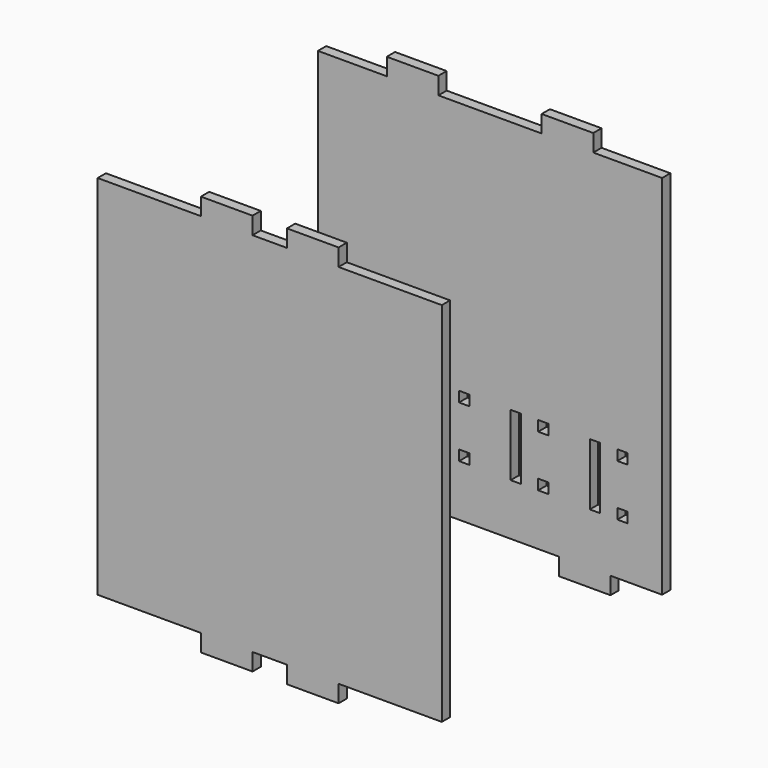
from build123d import *

# Parameters (mm, degrees)
F0_W     = 3
F0_H     = 3
F0_H_2   = 18
F1_DEPTH = 3
F4_DEPTH = 3


with BuildPart() as f1:
    # F0 (on Front) → F1 (new body)
    with BuildSketch(Plane.XZ):
        Polygon((-30, 53.3), (-50, 53.3), (-50, -53.3), (-35, -53.3), (-35, -58.3), (-20, -58.3), (-20, -53.3), (20, -53.3), (20, -58.3), (35, -58.3), (35, -53.3), (50, -53.3), (50, 53.3), (30, 53.3), (30, 58.3), (15, 58.3), (15, 53.3), (-15, 53.3), (-15, 58.3), (-30, 58.3), align=None)
        with Locations((-30.5, -36.8)):
            Rectangle(F0_W, F0_H, mode=Mode.SUBTRACT)
        with Locations((-7.5, -36.8)):
            Rectangle(F0_W, F0_H, mode=Mode.SUBTRACT)
        with Locations((-38.5, -29.3)):
            Rectangle(F0_W, F0_H_2, mode=Mode.SUBTRACT)
        with Locations((-15.5, -29.3)):
            Rectangle(F0_W, F0_H_2, mode=Mode.SUBTRACT)
        with Locations((15.5, -36.8)):
            Rectangle(F0_W, F0_H, mode=Mode.SUBTRACT)
        with Locations((38.5, -36.8)):
            Rectangle(F0_W, F0_H, mode=Mode.SUBTRACT)
        with Locations((7.5, -29.3)):
            Rectangle(F0_W, F0_H_2, mode=Mode.SUBTRACT)
        with Locations((30.5, -29.3)):
            Rectangle(F0_W, F0_H_2, mode=Mode.SUBTRACT)
        with Locations((-30.5, -21.8)):
            Rectangle(F0_W, F0_H, mode=Mode.SUBTRACT)
        with Locations((-7.5, -21.8)):
            Rectangle(F0_W, F0_H, mode=Mode.SUBTRACT)
        with Locations((15.5, -21.8)):
            Rectangle(F0_W, F0_H, mode=Mode.SUBTRACT)
        with Locations((38.5, -21.8)):
            Rectangle(F0_W, F0_H, mode=Mode.SUBTRACT)
    extrude(amount=F1_DEPTH)


with BuildPart() as f4:
    # F3 (on offset) → F4 (new body)
    with BuildSketch(Plane.XZ.offset(80)):
        Polygon((-20, 53.3), (-50, 53.3), (-50, -53.3), (-20, -53.3), (-20, -58.3), (-5, -58.3), (-5, -53.3), (5, -53.3), (5, -58.3), (20, -58.3), (20, -53.3), (50, -53.3), (50, 53.3), (20, 53.3), (20, 58.3), (5, 58.3), (5, 53.3), (-5, 53.3), (-5, 58.3), (-20, 58.3), align=None)
    extrude(amount=F4_DEPTH)


solid = Compound([f1.part, f4.part])
